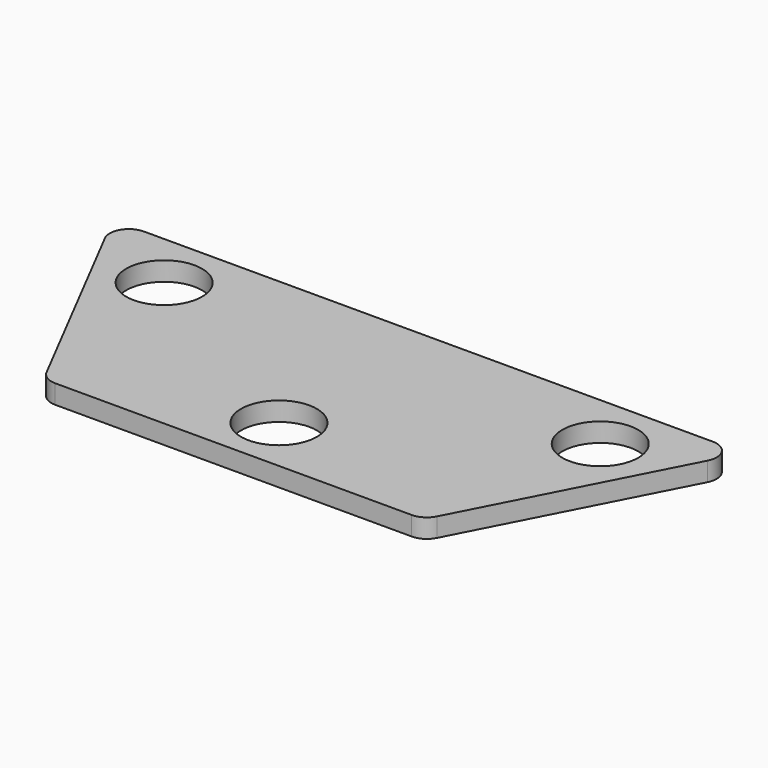
from build123d import *

# Parameters (mm, degrees)
F0_R     = 12.7
F1_DEPTH = 6.35


with BuildPart() as f1:
    # F0 (on Top) → F1 (new body)
    with BuildSketch(Plane.XY):
        with BuildLine():
            Line((0, -8.536373), (0, 41.326012))
            Line((0, 41.326012), (-95.25, 41.326012))
            ThreePointArc((-95.25, 41.326012), (-100.672652, 38.280153), (-100.893214, 32.064546))
            Line((-100.893214, 32.064546), (-65.33969, -36.84784))
            ThreePointArc((-65.33969, -36.84784), (-63.000616, -39.359026), (-59.696476, -40.286373))
            Line((-59.696476, -40.286373), (0, -40.286373))
            Line((0, -40.286373), (0, -33.936373))
            ThreePointArc((0, -33.936373), (-12.7, -21.236373), (0, -8.536373))
        make_face()
        with Locations((-73.025, 21.980401)):
            Circle(F0_R, mode=Mode.SUBTRACT)
        with BuildLine():
            Line((95.25, 41.326012), (0, 41.326012))
            Line((0, 41.326012), (0, -8.536373))
            ThreePointArc((0, -8.536373), (12.7, -21.236373), (0, -33.936373))
            Line((0, -33.936373), (0, -40.286373))
            Line((0, -40.286373), (59.696476, -40.286373))
            ThreePointArc((59.696476, -40.286373), (63.000616, -39.359026), (65.33969, -36.84784))
            Line((65.33969, -36.84784), (100.893214, 32.064546))
            ThreePointArc((100.893214, 32.064546), (100.672652, 38.280153), (95.25, 41.326012))
        make_face()
        with Locations((73.025, 21.980401)):
            Circle(F0_R, mode=Mode.SUBTRACT)
    extrude(amount=F1_DEPTH)


solid = f1.part
